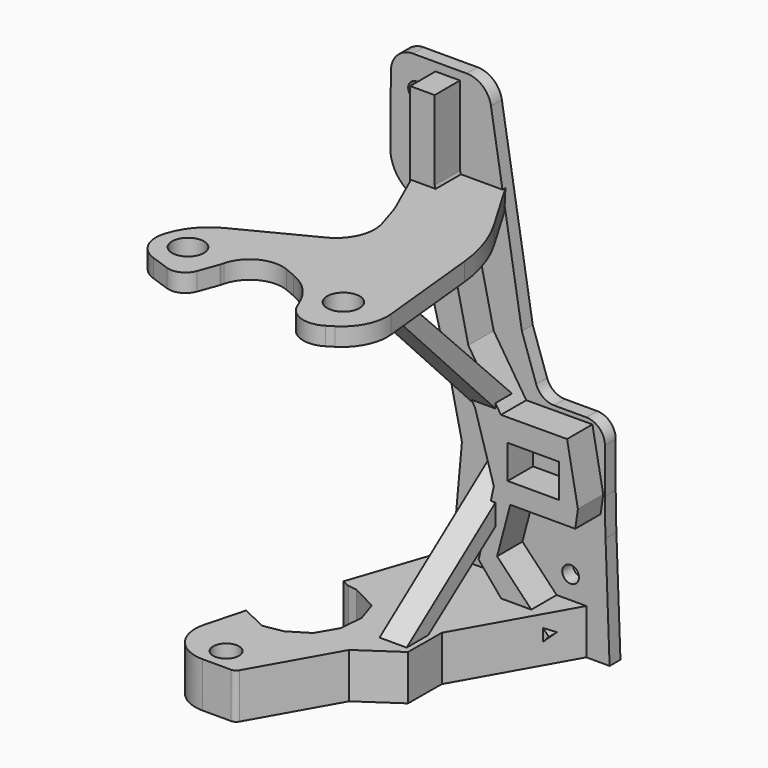
from build123d import *

# Parameters (mm, degrees)
SKETCH_R      = 1.85
PAD_DEPTH     = 3
SKETCH812_R   = 2.85
PAD348_DEPTH  = 10
SKETCH813_R   = 3.513871
SKETCH813_R_2 = 3.587043
PAD349_DEPTH  = 4
SKETCH821_W   = 11.37968
SKETCH821_H   = 7.430097
PAD355_DEPTH  = 10
PAD363_DEPTH  = 6


with BuildPart() as part:
    # Sketch → Pad (new body)
    with BuildSketch(Plane.XZ):
        with BuildLine():
            Line((17.170527, 114.035013), (29.028223, 114.035013))
            ThreePointArc((34.420691, 109.455462), (32.565559, 112.735644), (29.028223, 114.035013))
            Line((34.420691, 109.455462), (41.249141, 67.851686))
            Line((41.249141, 67.851686), (44.41543, 58.566272))
            ThreePointArc((44.41543, 58.566272), (45.948377, 56.503803), (48.395228, 55.718549))
            Line((48.395228, 55.718549), (55.488024, 55.718549))
            ThreePointArc((59.596813, 51.60976), (58.393377, 54.515112), (55.488024, 55.718549))
            Line((59.596813, 51.60976), (59.596813, 41.694012))
            ThreePointArc((59.596813, 41.694012), (59.634099, 37.602359), (59.745945, 33.512064))
            Line((59.745945, 33.512064), (60.639802, 8.999999))
            Line((25, 8.999999), (60.639802, 8.999999))
            Line((28, 42), (25, 8.999999))
            Line((28, 42), (25.842674, 51.783651))
            ThreePointArc((24.578785, 63.385024), (24.89569, 57.550016), (25.842674, 51.783651))
            Line((24.578785, 63.385024), (24.578785, 74.280037))
            ThreePointArc((24.578785, 74.280037), (23.273536, 79.833608), (19.63109, 84.224328))
            Line((19.63109, 84.224328), (15.461415, 87.377315))
            ThreePointArc((12.16968, 94.057692), (13.023718, 90.327332), (15.461415, 87.377315))
            Line((12.16968, 94.057692), (12.286198, 109.188152))
            ThreePointArc((17.170527, 114.035013), (13.730006, 112.617656), (12.286198, 109.188152))
        make_face()
        with Locations((17.961559, 107.033859)):
            Circle(SKETCH_R, mode=Mode.SUBTRACT)
        with Locations((52.019562, 24.038517)):
            Circle(SKETCH_R, mode=Mode.SUBTRACT)
    extrude(amount=PAD_DEPTH)

    # Sketch812 → Pad348 (join)
    with BuildSketch(Plane.XY.offset(19)):
        with BuildLine():
            Line((35.385866, -0.616313), (31, -0.47951))
            Line((31, -0.47951), (24.245244, -0.47951))
            Line((24.245244, -0.47951), (17, -22))
            Line((17, -22), (18.714132, -22.779449))
            Line((18.714132, -22.779449), (20.699953, -23))
            Line((20.699953, -23), (26.461662, -26))
            Line((26.461662, -26), (28, -30.707495))
            Line((28, -30.707495), (27.531696, -36))
            Line((27.531696, -36), (25, -40.33778))
            Line((25, -40.33778), (20.617645, -43))
            Line((20.617645, -43), (16.419827, -43.712494))
            Line((16.419827, -43.712494), (12.22201, -41.737053))
            Line((12.22201, -41.737053), (10.684048, -40.962522))
            Line((10.684048, -40.962522), (8.352329, -49.76217))
            ThreePointArc((8.352329, -49.76217), (9.758834, -56.757072), (16.160124, -59.908323))
            Line((16.160124, -59.908323), (22.494802, -59.908323))
            ThreePointArc((22.494802, -59.908323), (23.211929, -59.71442), (23.733626, -59.185552))
            Line((23.733626, -59.185552), (33.781615, -41.410286))
            Line((42.205357, -35.669304), (33.781615, -41.410286))
            Line((42.271875, -26.390701), (42.205357, -35.669304))
            Line((42.271875, -26.390701), (56.841603, -0.616313))
            Line((56.841603, -0.616313), (35.385866, -0.616313))
        make_face()
        with Locations((17.460455, -55)):
            Circle(SKETCH812_R, mode=Mode.SUBTRACT)
    extrude(amount=-PAD348_DEPTH)

    # Sketch813 → Pad349 (join)
    with BuildSketch(Plane.XY.offset(90)):
        with BuildLine():
            Line((18.169887, -0.624235), (26.367772, -19.070229))
            ThreePointArc((27.333045, -21.643874), (26.888629, -20.342717), (26.367772, -19.070229))
            Line((27.333045, -21.643874), (28.631721, -25.850496))
            ThreePointArc((24.357214, -36.0031), (28.341536, -31.704461), (28.631721, -25.850496))
            Line((24.357214, -36.0031), (8.402813, -44.195061))
            ThreePointArc((8.402813, -44.195061), (4.422376, -47.325464), (1.905131, -51.719412))
            Line((1.905131, -51.719412), (1.74589, -52.187085))
            ThreePointArc((1.74589, -52.187085), (2.061173, -57.206378), (5.821391, -60.54606))
            Line((5.821391, -60.54606), (9.993196, -61.999858))
            ThreePointArc((9.993196, -61.999858), (12.851411, -61.847603), (14.782453, -59.734867))
            Line((14.782453, -59.734867), (16.394974, -55.344035))
            ThreePointArc((16.394974, -55.344035), (16.425444, -55.254007), (16.451264, -55.162537))
            Line((16.451264, -55.162537), (16.622268, -54.491485))
            ThreePointArc((26.49366, -49.560226), (20.430172, -49.768242), (16.622268, -54.491485))
            Line((26.49366, -49.560226), (28.791165, -50.517281))
            ThreePointArc((35.736479, -57.415769), (32.940269, -53.285486), (28.791165, -50.517281))
            Line((35.736479, -57.415769), (36.465842, -59.133842))
            ThreePointArc((36.465842, -59.133842), (40.075749, -62.413453), (44.914196, -61.799683))
            Line((44.914196, -61.799683), (46.318309, -60.923252))
            ThreePointArc((46.318309, -60.923252), (50.028994, -56.809581), (51.000403, -51.355423))
            Line((51.000403, -51.355423), (48.606712, -28.103775))
            ThreePointArc((48.606712, -28.103775), (47.070039, -20.895597), (44.031508, -14.180947))
            Line((44.031508, -14.180947), (36.044554, -0.624235))
            Line((36.044554, -0.624235), (18.169887, -0.624235))
        make_face()
        with Locations((8, -53.707806)):
            Circle(SKETCH813_R, mode=Mode.SUBTRACT)
        with Locations((41.795517, -53)):
            Circle(SKETCH813_R_2, mode=Mode.SUBTRACT)
    extrude(amount=PAD349_DEPTH)

    # Sketch821 → Pad355 (join)
    with BuildSketch(Plane.XZ):
        Polygon((22.156289, 112.186128), (27.568653, 112.186128), (27.568653, 94.657045), (30.525631, 85.906328), (35.012636, 65.899044), (42.218135, 54.723457), (56.839641, 54.774327), (59.23116, 41.91714), (58.653773, 37.89675), (44.278898, 37.89675), (41.369676, 26.918821), (52.806533, 14.952882), (49.043392, 10.924277), (37.294467, 24.947567), (40.651068, 40.30126), (36.476615, 54.317373), (28.98766, 65.755908), (22.156289, 91.93571), align=None)
        with Locations((49.397274, 46.051621)):
            Rectangle(SKETCH821_W, SKETCH821_H, mode=Mode.SUBTRACT)
    extrude(amount=PAD355_DEPTH)

    # Sketch840 → Pad363 (join)
    with BuildSketch(Plane.YZ.offset(35)):
        Polygon((-43.607986, 90.449928), (-38.696293, 90.449928), (-2.349776, 53.489452), (-2.104192, 47.349838), align=None)
        Polygon((-36.262971, 17.706057), (-30.339335, 17.706057), (-1.605939, 38.713028), (-2.09711, 43.133553), align=None)
    extrude(amount=PAD363_DEPTH)


solid = part.part
